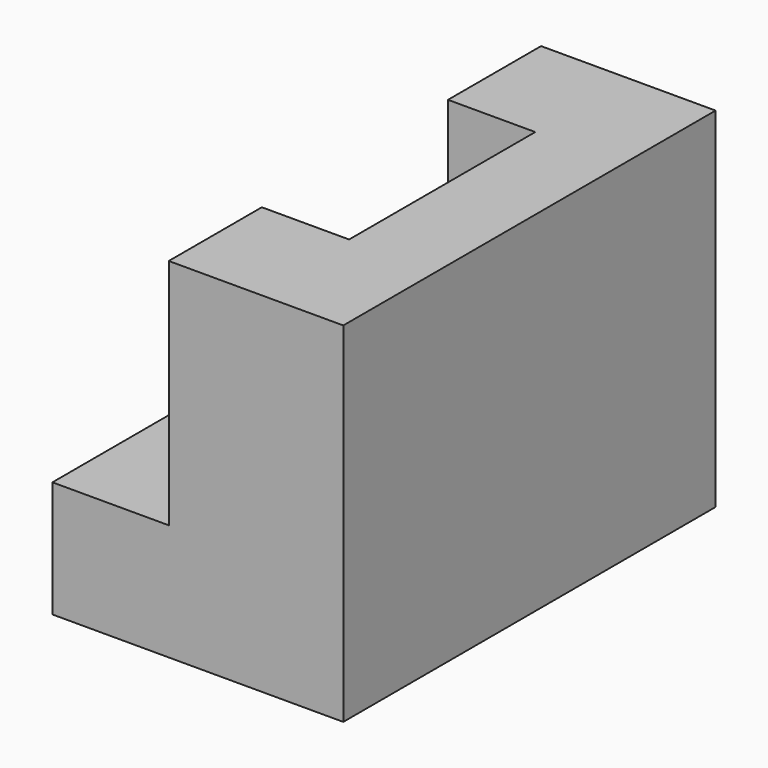
from build123d import *

# Parameters (mm, degrees)
F1_DEPTH = 101.6
F2_W     = 50.8
F2_H     = 38.1
F3_DEPTH = 19.05


with BuildPart() as f1:
    # F0 (on Front) → F1 (new body)
    with BuildSketch(Plane.XZ):
        Polygon((-29.8929, -17.777541), (-29.8929, -43.177541), (33.6071, -43.177541), (33.6071, 33.022459), (-4.4929, 33.022459), (-4.4929, -17.777541), align=None)
    extrude(amount=F1_DEPTH)

    # F2 (on face) → F3 (cut)
    with BuildSketch(Plane(origin=(-4.4929, 0, 0), x_dir=(0, -1, 0), z_dir=(-1, 0, 0))):
        with Locations((50.8, 13.972459)):
            Rectangle(F2_W, F2_H)
    extrude(amount=-F3_DEPTH, mode=Mode.SUBTRACT)


solid = f1.part
